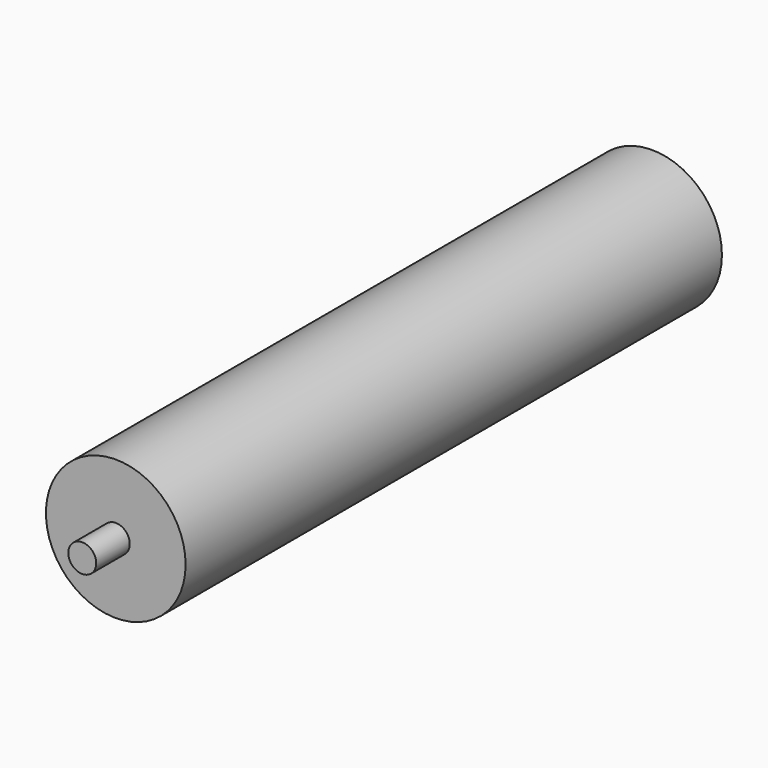
from build123d import *

# Parameters (mm, degrees)
F0_R     = 31.75
F1_DEPTH = 304.8
F2_R     = 6.35
F3_DEPTH = 9.525
F4_R     = 6.35
F5_DEPTH = 19.05


with BuildPart() as f1:
    # F0 (on Front) → F1 (new body)
    with BuildSketch(Plane.XZ):
        with Locations((-74.6771916747, 45.8630174398)):
            Circle(F0_R)
    extrude(amount=F1_DEPTH)

    # F2 (on face) → F3 (join, symmetric)
    with BuildSketch(Plane(origin=(0, 0, 0), x_dir=(-1, 0, 0), z_dir=(0, 1, 0))):
        with Locations((74.6771916747, 45.8630174398)):
            Circle(F2_R)
    extrude(amount=F3_DEPTH, both=True)

    # F4 (on face) → F5 (join)
    with BuildSketch(Plane.XZ.offset(304.8)):
        with Locations((-74.6771916747, 45.8630174398)):
            Circle(F4_R)
    extrude(amount=F5_DEPTH)


solid = f1.part
